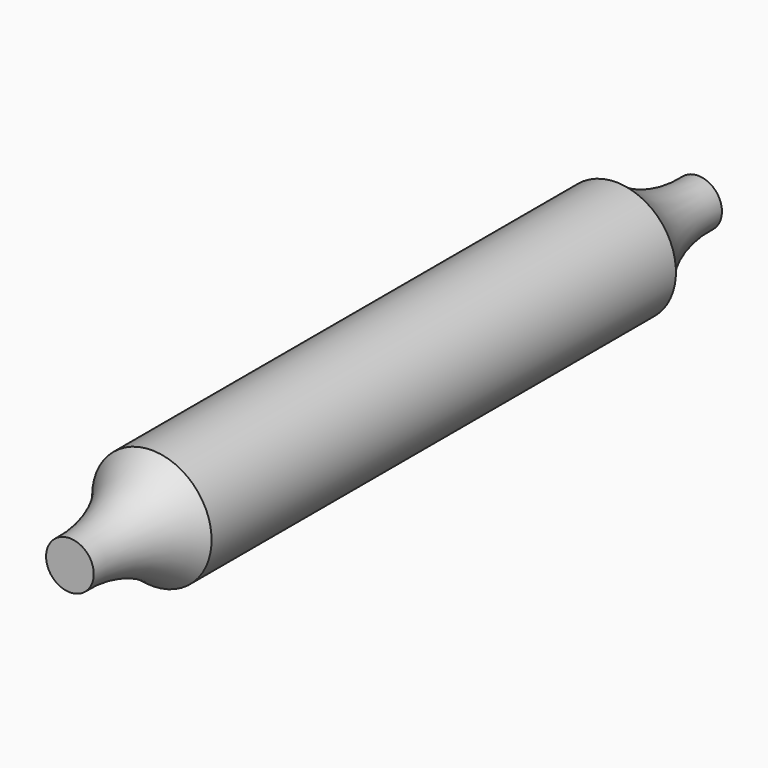
from build123d import *


with BuildPart() as f1:
    # F0 (on Top) → F1 (revolve)
    with BuildSketch(Plane.XY):
        with BuildLine():
            ThreePointArc((4.207879, 12), (3.242526, 5.600747), (0, 0))
            Line((0, 0), (0, -34))
            Line((0, -34), (7, -34))
            Line((7, -34), (7, 12))
            Line((7, 12), (4.207879, 12))
        make_face()
        with BuildLine():
            Line((7, -34), (0, -34))
            Line((0, -34), (0, -68))
            ThreePointArc((0, -68), (3.242526, -73.600747), (4.207879, -80))
            Line((4.207879, -80), (7, -80))
            Line((7, -80), (7, -34))
        make_face()
    revolve(axis=Axis((7, -11, 0), (0, -1, 0)))


solid = f1.part
